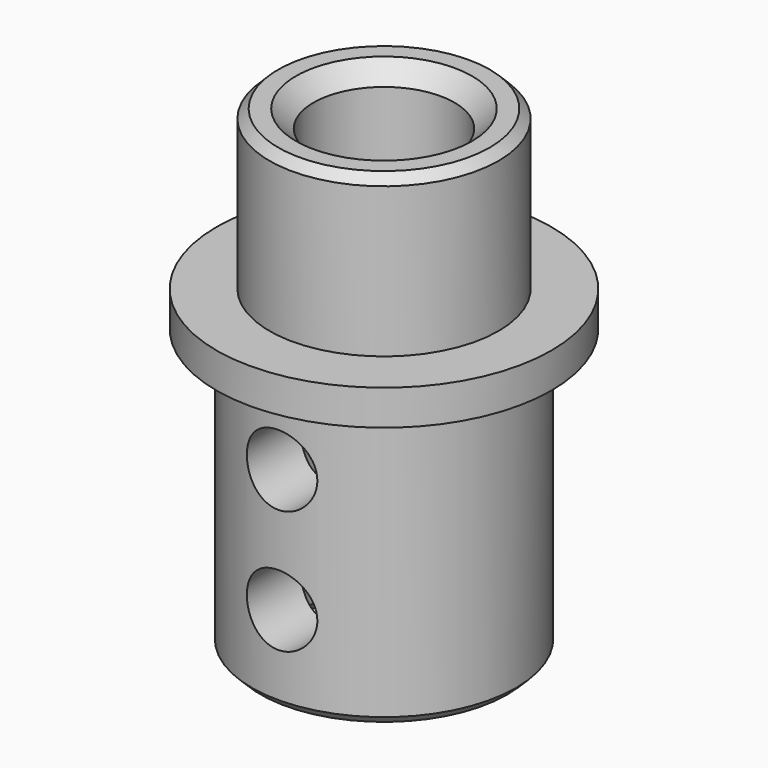
from build123d import *

# Parameters (mm, degrees)
F0_R     = 7.5
F0_R_2   = 4
F1_DEPTH = 18
F2_R     = 6.5
F2_R_2   = 4
F3_DEPTH = 9
F4_SIZE  = 1
F5_SIZE  = 0.5
F6_R     = 9.5
F6_R_2   = 6.5
F7_DEPTH = 2
F8_R     = 2
F9_DEPTH = 25


with BuildPart() as f1:
    # F0 (on Top) → F1 (new body)
    with BuildSketch(Plane.XY):
        Circle(F0_R)
        Circle(F0_R_2, mode=Mode.SUBTRACT)
    extrude(amount=F1_DEPTH)

    # F2 (on face) → F3 (join)
    with BuildSketch(Plane.XY.offset(18)):
        Circle(F2_R)
        Circle(F2_R_2, mode=Mode.SUBTRACT)
    extrude(amount=F3_DEPTH)

    # F4
    f4_edges = [f1.edges().sort_by_distance(p)[0] for p in [
        (-4, 0, 27),
        (-4, 0, 0),
    ]]
    chamfer(f4_edges, length=F4_SIZE)

    # F5
    f5_edges = [f1.edges().sort_by_distance(p)[0] for p in [
        (-7.5, 0, 0),
        (-6.5, 0, 27),
    ]]
    chamfer(f5_edges, length=F5_SIZE)

    # F6 (on face) → F7 (join)
    with BuildSketch(Plane.XY.offset(18)):
        Circle(F6_R)
        Circle(F6_R_2, mode=Mode.SUBTRACT)
    extrude(amount=-F7_DEPTH)

    # F8 (on Front) → F9 (cut)
    with BuildSketch(Plane.XZ):
        with Locations((0, 5)):
            Circle(F8_R)
        with Locations((0, 12)):
            Circle(F8_R)
    extrude(amount=F9_DEPTH, mode=Mode.SUBTRACT)


solid = f1.part
